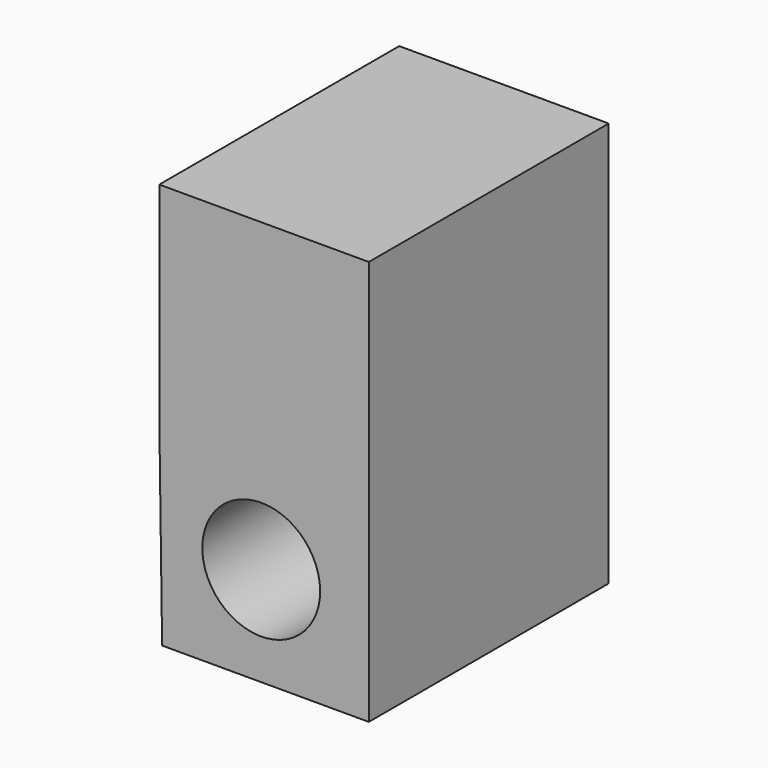
from build123d import *

# Parameters (mm, degrees)
F0_R     = 5.8945377359
F0_W     = 20.9622308612
F0_H     = 20.3956845216
F1_DEPTH = 30


with BuildPart() as f1:
    # F0 (on Front) → F1 (new body)
    with BuildSketch(Plane.XZ):
        Polygon((-36.967176944, -26.2027885765), (-36.6839058697, -46.3152006269), (-16.0049460828, -46.3152006269), (-16.0049460828, -26.2027885765), align=None)
        with Locations((-26.769336313, -36.4006310701)):
            Circle(F0_R, mode=Mode.SUBTRACT)
        with Locations((-26.4860615134, -16.0049463157)):
            Rectangle(F0_W, F0_H)
    extrude(amount=F1_DEPTH)


solid = f1.part
